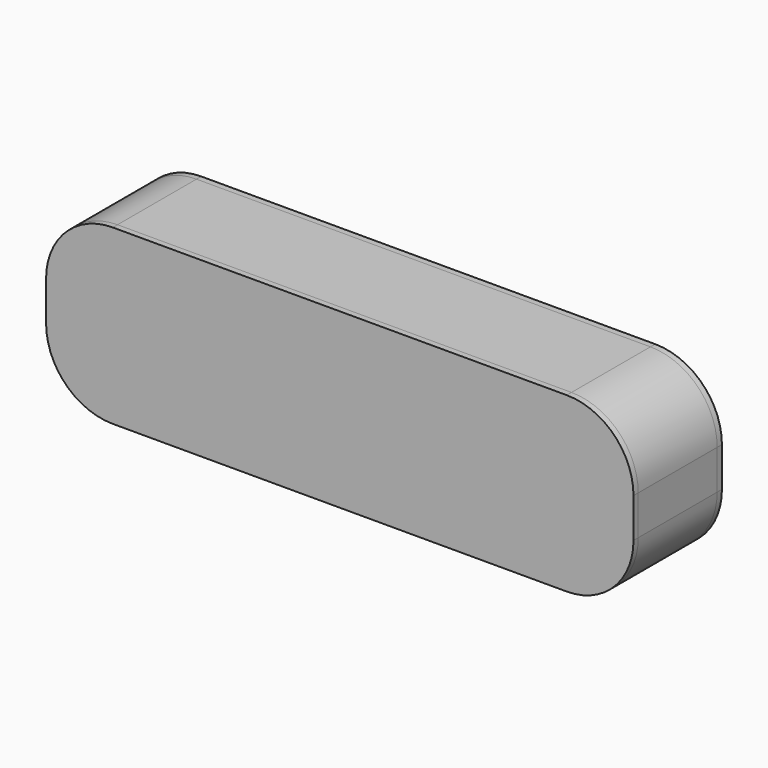
from build123d import *

# Parameters (mm, degrees)
F0_W     = 230
F0_H     = 80
F0_W_2   = 224
F0_H_2   = 74
F1_DEPTH = 50
F2_DEPTH = 3
F3_DEPTH = 3
F4_DEPTH = 50
F5_W     = 224
F5_H     = 74
F6_DEPTH = 3
F7_DEPTH = 3


with BuildPart() as f1:
    # F0 (on Front) → F1 (new body)
    with BuildSketch(Plane.XZ):
        with BuildLine():
            ThreePointArc((-115, 43), (-138.3345237792, 33.3345237792), (-148, 10))
            Line((-148, 10), (-148, -10))
            ThreePointArc((-148, -10), (-138.3345237792, -33.3345237792), (-115, -43))
            Line((-115, -43), (115, -43))
            ThreePointArc((115, -43), (138.3345237792, -33.3345237792), (148, -10))
            Line((148, -10), (148, 10))
            ThreePointArc((148, 10), (138.3345237792, 33.3345237792), (115, 43))
            Line((115, 43), (-115, 43))
        make_face()
        with BuildLine():
            Line((-115, 40), (115, 40))
            ThreePointArc((115, 40), (136.2132034356, 31.2132034356), (145, 10))
            Line((145, 10), (145, -10))
            ThreePointArc((145, -10), (136.2132034356, -31.2132034356), (115, -40))
            Line((115, -40), (-115, -40))
            ThreePointArc((-115, -40), (-136.2132034356, -31.2132034356), (-145, -10))
            Line((-145, -10), (-145, 10))
            ThreePointArc((-145, 10), (-136.2132034356, 31.2132034356), (-115, 40))
        make_face(mode=Mode.SUBTRACT)
        Rectangle(F0_W, F0_H)
        Rectangle(F0_W_2, F0_H_2, mode=Mode.SUBTRACT)
    extrude(amount=-F1_DEPTH)


with BuildPart() as f2:
    # F0 (on Front) → F2 (new body)
    with BuildSketch(Plane.XZ):
        Rectangle(F0_W_2, F0_H_2)
    extrude(amount=-F2_DEPTH)


with BuildPart() as f3:
    # F0 (on Front) → F3 (new body)
    with BuildSketch(Plane.XZ):
        with BuildLine():
            ThreePointArc((148.8, 10), (138.9002092041, 33.9002092041), (115, 43.8))
            Line((115, 43.8), (-115, 43.8))
            ThreePointArc((-115, 43.8), (-138.9002092041, 33.9002092041), (-148.8, 10))
            Line((-148.8, 10), (-148.8, -10))
            ThreePointArc((-148.8, -10), (-138.9002092041, -33.9002092041), (-115, -43.8))
            Line((-115, -43.8), (115, -43.8))
            ThreePointArc((115, -43.8), (138.9002092041, -33.9002092041), (148.8, -10))
            Line((148.8, -10), (148.8, 10))
        make_face()
        with BuildLine():
            Line((-148, -10), (-148, 10))
            ThreePointArc((-148, 10), (-138.3345237792, 33.3345237792), (-115, 43))
            Line((-115, 43), (115, 43))
            ThreePointArc((115, 43), (138.3345237792, 33.3345237792), (148, 10))
            Line((148, 10), (148, -10))
            ThreePointArc((148, -10), (138.3345237792, -33.3345237792), (115, -43))
            Line((115, -43), (-115, -43))
            ThreePointArc((-115, -43), (-138.3345237792, -33.3345237792), (-148, -10))
        make_face(mode=Mode.SUBTRACT)
        with BuildLine():
            ThreePointArc((-115, 43), (-138.3345237792, 33.3345237792), (-148, 10))
            Line((-148, 10), (-148, -10))
            ThreePointArc((-148, -10), (-138.3345237792, -33.3345237792), (-115, -43))
            Line((-115, -43), (115, -43))
            ThreePointArc((115, -43), (138.3345237792, -33.3345237792), (148, -10))
            Line((148, -10), (148, 10))
            ThreePointArc((148, 10), (138.3345237792, 33.3345237792), (115, 43))
            Line((115, 43), (-115, 43))
        make_face()
        with BuildLine():
            Line((-115, 40), (115, 40))
            ThreePointArc((115, 40), (136.2132034356, 31.2132034356), (145, 10))
            Line((145, 10), (145, -10))
            ThreePointArc((145, -10), (136.2132034356, -31.2132034356), (115, -40))
            Line((115, -40), (-115, -40))
            ThreePointArc((-115, -40), (-136.2132034356, -31.2132034356), (-145, -10))
            Line((-145, -10), (-145, 10))
            ThreePointArc((-145, 10), (-136.2132034356, 31.2132034356), (-115, 40))
        make_face(mode=Mode.SUBTRACT)
        Rectangle(F0_W, F0_H)
        Rectangle(F0_W_2, F0_H_2, mode=Mode.SUBTRACT)
        Rectangle(F0_W_2, F0_H_2)
        with BuildLine():
            Line((-115, -40), (-115, 40))
            ThreePointArc((-115, 40), (-136.2132034356, 31.2132034356), (-145, 10))
            Line((-145, 10), (-145, -10))
            ThreePointArc((-145, -10), (-136.2132034356, -31.2132034356), (-115, -40))
        make_face()
        with BuildLine():
            ThreePointArc((145, 10), (136.2132034356, 31.2132034356), (115, 40))
            Line((115, 40), (115, -40))
            ThreePointArc((115, -40), (136.2132034356, -31.2132034356), (145, -10))
            Line((145, -10), (145, 10))
        make_face()
    extrude(amount=F3_DEPTH)


with BuildPart() as f4:
    # F0 (on Front) → F4 (new body)
    with BuildSketch(Plane.XZ):
        with BuildLine():
            ThreePointArc((148.8, 10), (138.9002092041, 33.9002092041), (115, 43.8))
            Line((115, 43.8), (-115, 43.8))
            ThreePointArc((-115, 43.8), (-138.9002092041, 33.9002092041), (-148.8, 10))
            Line((-148.8, 10), (-148.8, -10))
            ThreePointArc((-148.8, -10), (-138.9002092041, -33.9002092041), (-115, -43.8))
            Line((-115, -43.8), (115, -43.8))
            ThreePointArc((115, -43.8), (138.9002092041, -33.9002092041), (148.8, -10))
            Line((148.8, -10), (148.8, 10))
        make_face()
        with BuildLine():
            Line((-148, -10), (-148, 10))
            ThreePointArc((-148, 10), (-138.3345237792, 33.3345237792), (-115, 43))
            Line((-115, 43), (115, 43))
            ThreePointArc((115, 43), (138.3345237792, 33.3345237792), (148, 10))
            Line((148, 10), (148, -10))
            ThreePointArc((148, -10), (138.3345237792, -33.3345237792), (115, -43))
            Line((115, -43), (-115, -43))
            ThreePointArc((-115, -43), (-138.3345237792, -33.3345237792), (-148, -10))
        make_face(mode=Mode.SUBTRACT)
    extrude(amount=-F4_DEPTH)


with BuildPart() as f6:
    # F5 (on face) → F6 (new body)
    with BuildSketch(Plane(origin=(0, 50, 0), x_dir=(-1, 0, 0), z_dir=(0, 1, 0))):
        Rectangle(F5_W, F5_H)
    extrude(amount=-F6_DEPTH)


with BuildPart() as f7:
    # F5 (on face) + F4_face (on face) → F7 (new body)
    with BuildSketch(Plane(origin=(0, 50, 0), x_dir=(-1, 0, 0), z_dir=(0, 1, 0))):
        with BuildLine():
            Line((148, -10), (148, 10))
            ThreePointArc((148, 10), (138.3345237792, 33.3345237792), (115, 43))
            Line((115, 43), (-115, 43))
            ThreePointArc((-115, 43), (-138.3345237792, 33.3345237792), (-148, 10))
            Line((-148, 10), (-148, -10))
            ThreePointArc((-148, -10), (-138.3345237792, -33.3345237792), (-115, -43))
            Line((-115, -43), (115, -43))
            ThreePointArc((115, -43), (138.3345237792, -33.3345237792), (148, -10))
        make_face()
        with BuildLine():
            Line((-145, -10), (-145, 10))
            ThreePointArc((-145, 10), (-136.2132034356, 31.2132034356), (-115, 40))
            Line((-115, 40), (-115, -40))
            ThreePointArc((-115, -40), (-136.2132034356, -31.2132034356), (-145, -10))
        make_face(mode=Mode.SUBTRACT)
        Rectangle(F5_W, F5_H, mode=Mode.SUBTRACT)
        with BuildLine():
            Line((115, -40), (115, 40))
            ThreePointArc((115, 40), (136.2132034356, 31.2132034356), (145, 10))
            Line((145, 10), (145, -10))
            ThreePointArc((145, -10), (136.2132034356, -31.2132034356), (115, -40))
        make_face(mode=Mode.SUBTRACT)
        Rectangle(F5_W, F5_H)
        with BuildLine():
            ThreePointArc((-115, 40), (-136.2132034356, 31.2132034356), (-145, 10))
            Line((-145, 10), (-145, -10))
            ThreePointArc((-145, -10), (-136.2132034356, -31.2132034356), (-115, -40))
            Line((-115, -40), (-115, 40))
        make_face()
        with BuildLine():
            ThreePointArc((145, 10), (136.2132034356, 31.2132034356), (115, 40))
            Line((115, 40), (115, -40))
            ThreePointArc((115, -40), (136.2132034356, -31.2132034356), (145, -10))
            Line((145, -10), (145, 10))
        make_face()
    with BuildSketch(Plane(origin=(0, 50, 0), x_dir=(1, 0, 0), z_dir=(0, 1, 0))):
        with BuildLine():
            ThreePointArc((148.8, 10), (138.9002092041, 33.9002092041), (115, 43.8))
            Line((115, 43.8), (-115, 43.8))
            ThreePointArc((-115, 43.8), (-138.9002092041, 33.9002092041), (-148.8, 10))
            Line((-148.8, 10), (-148.8, -10))
            ThreePointArc((-148.8, -10), (-138.9002092041, -33.9002092041), (-115, -43.8))
            Line((-115, -43.8), (115, -43.8))
            ThreePointArc((115, -43.8), (138.9002092041, -33.9002092041), (148.8, -10))
            Line((148.8, -10), (148.8, 10))
        make_face()
        with BuildLine():
            ThreePointArc((-148, 10), (-138.3345237792, 33.3345237792), (-115, 43))
            Line((-115, 43), (115, 43))
            ThreePointArc((115, 43), (138.3345237792, 33.3345237792), (148, 10))
            Line((148, 10), (148, -10))
            ThreePointArc((148, -10), (138.3345237792, -33.3345237792), (115, -43))
            Line((115, -43), (-115, -43))
            ThreePointArc((-115, -43), (-138.3345237792, -33.3345237792), (-148, -10))
            Line((-148, -10), (-148, 10))
        make_face(mode=Mode.SUBTRACT)
    extrude(amount=F7_DEPTH)


solid = Compound([f1.part, f2.part, f3.part, f4.part, f6.part, f7.part])
